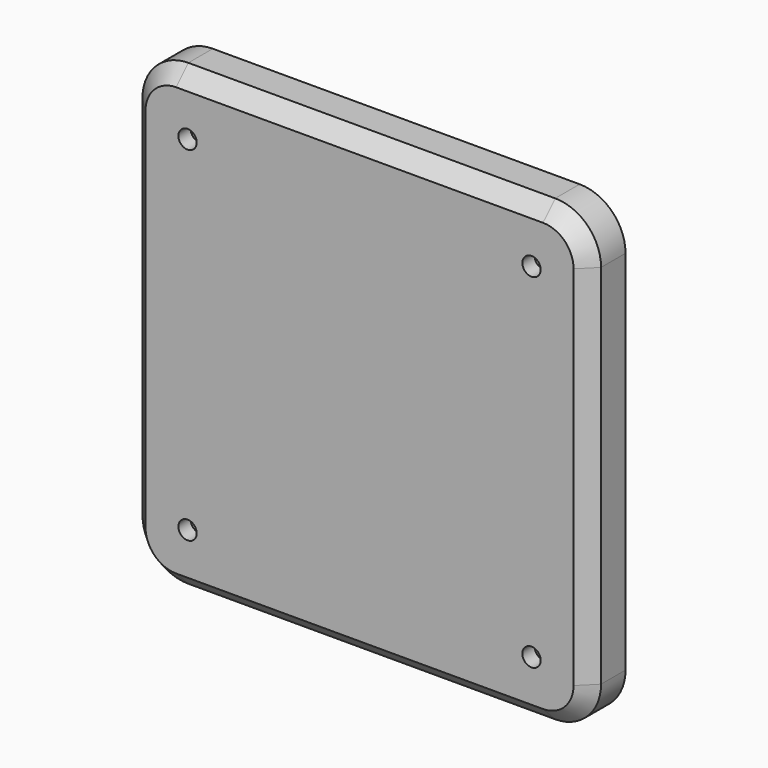
from build123d import *

# Parameters (mm, degrees)
F1_DEPTH = 30
F2_SIZE  = 10
F3_R     = 6
F4_DEPTH = 10
F5_R     = 6
F6_DEPTH = 10


with BuildPart() as f1:
    # F0 (on Front) → F1 (new body)
    with BuildSketch(Plane.XZ):
        with BuildLine():
            Line((120, 150), (-120, 150))
            ThreePointArc((-120, 150), (-141.213203, 141.213203), (-150, 120))
            Line((-150, 120), (-150, -120))
            ThreePointArc((-150, -120), (-141.213203, -141.213203), (-120, -150))
            Line((-120, -150), (120, -150))
            ThreePointArc((120, -150), (141.213203, -141.213203), (150, -120))
            Line((150, -120), (150, 120))
            ThreePointArc((150, 120), (141.213203, 141.213203), (120, 150))
        make_face()
    extrude(amount=F1_DEPTH)

    # F2
    f2_edges = [f1.edges().sort_by_distance(p)[0] for p in [
        (0, -30, 150),
        (-150, -30, 0),
        (0, -30, -150),
        (150, -30, 0),
        (141.213203, -30, 141.213203),
        (-141.213203, -30, 141.213203),
        (-141.213203, -30, -141.213203),
        (141.213203, -30, -141.213203),
    ]]
    chamfer(f2_edges, length=F2_SIZE)

    # F3 (on face) → F4 (cut)
    with BuildSketch(Plane.XZ.offset(30)):
        with Locations((-112.5, 112.5)):
            Circle(F3_R)
        with Locations((-112.5, -112.5)):
            Circle(F3_R)
        with Locations((112.5, -112.5)):
            Circle(F3_R)
        with Locations((112.5, 112.5)):
            Circle(F3_R)
    extrude(amount=-F4_DEPTH, mode=Mode.SUBTRACT)

    # F5 (on face) → F6 (cut)
    with BuildSketch(Plane(origin=(0, 0, 0), x_dir=(-1, 0, 0), z_dir=(0, 1, 0))):
        with Locations((-125, 125)):
            Circle(F5_R)
        with Locations((-125, -125)):
            Circle(F5_R)
        with Locations((125, -125)):
            Circle(F5_R)
        with Locations((125, 125)):
            Circle(F5_R)
    extrude(amount=-F6_DEPTH, mode=Mode.SUBTRACT)


solid = f1.part
